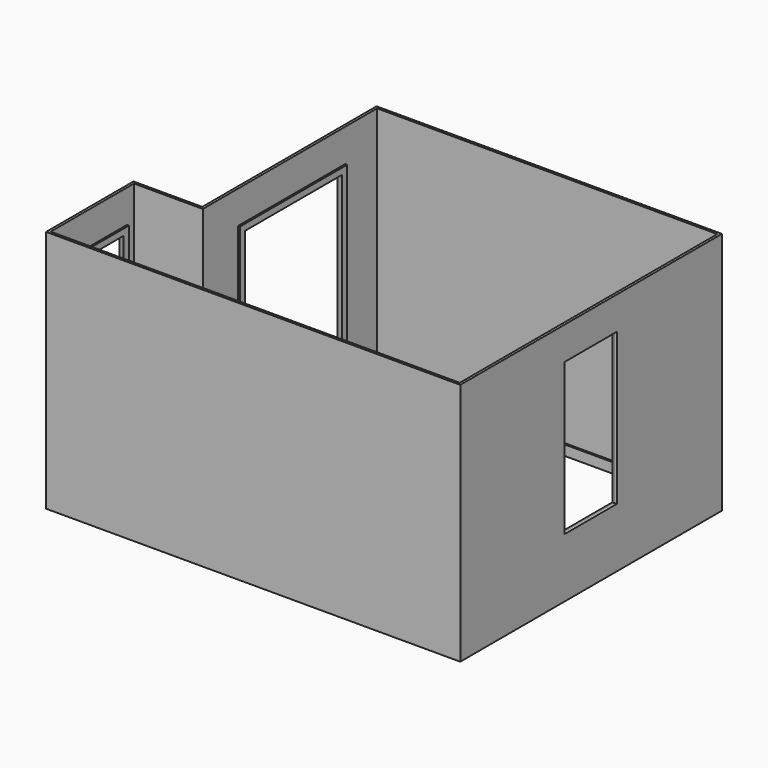
from build123d import *

# Parameters (mm, degrees)
F1_DEPTH       = 2451.1
F2_DEPTH       = 2451.1
F3_DEPTH       = 2451.1
F4_DEPTH       = 2451.1
F5_DEPTH       = 2451.1
F6_DEPTH       = 2451.1
F7_DEPTH       = 101.6
F8_DEPTH       = 101.6
F9_DEPTH       = 101.6
F10_DEPTH      = 101.6
F11_DEPTH      = 101.6
F12_DEPTH      = 101.6
F13_W          = 742.95
F13_H          = 2057.4
F14_DEPTH      = 19.05
F14_DEPTH_BACK = 25.4
F15_DEPTH      = 19.05
F16_W          = 1222.375
F16_H          = 2057.4
F17_DEPTH      = 25.4
F17_DEPTH_BACK = 19.05
F18_DEPTH      = 19.05
F19_W          = 660.4
F19_H          = 1524
F3_FACE1_W     = 3289.3
F3_FACE1_H     = 2451.1
F20_DEPTH      = 25.4
F19_W_2        = 787.4
F19_H_2        = 1651
F21_DEPTH      = 19.05


with BuildPart() as f1:
    # F0 (on Top) → F1 (new body)
    with BuildSketch(Plane.XY):
        Polygon((-25.4, -25.4), (0, 0), (0, 1047.75), (-25.4, 1073.15), align=None)
    extrude(amount=F1_DEPTH)


with BuildPart() as f2:
    # F0 (on Top) → F2 (new body)
    with BuildSketch(Plane.XY):
        Polygon((4114.8, 0), (0, 0), (-25.4, -25.4), (4140.2, -25.4), align=None)
    extrude(amount=F2_DEPTH)


with BuildPart() as f3:
    # F0 (on Top) → F3 (new body)
    with BuildSketch(Plane.XY):
        Polygon((4114.8, 3238.5), (4114.8, 0), (4140.2, -25.4), (4140.2, 3263.9), align=None)
    extrude(amount=F3_DEPTH)

    # F19 (on face) + F3_face1 (on face) → F20 (cut)
    with BuildSketch(Plane(origin=(4114.8, 0, 0), x_dir=(0, -1, 0), z_dir=(-1, 0, 0))):
        with Locations((-1612.9, 1358.9)):
            Rectangle(F19_W, F19_H)
    with BuildSketch(Plane(origin=(4140.2, 1619.25, 1225.55), x_dir=(0, 1, 0), z_dir=(1, 0, 0))):
        Rectangle(F3_FACE1_W, F3_FACE1_H)
    extrude(amount=-F20_DEPTH, dir=(-1, 0, 0), mode=Mode.SUBTRACT)


with BuildPart() as f4:
    # F0 (on Top) → F4 (new body)
    with BuildSketch(Plane.XY):
        Polygon((692.15, 3238.5), (4114.8, 3238.5), (4140.2, 3263.9), (666.75, 3263.9), align=None)
    extrude(amount=F4_DEPTH)


with BuildPart() as f5:
    # F0 (on Top) → F5 (new body)
    with BuildSketch(Plane.XY):
        Polygon((666.75, 1073.15), (692.15, 1047.75), (692.15, 3238.5), (666.75, 3263.9), align=None)
    extrude(amount=F5_DEPTH)


with BuildPart() as f6:
    # F0 (on Top) → F6 (new body)
    with BuildSketch(Plane.XY):
        Polygon((-25.4, 1073.15), (0, 1047.75), (692.15, 1047.75), (666.75, 1073.15), align=None)
    extrude(amount=F6_DEPTH)


with BuildPart() as f7:
    # F0 (on Top) → F7 (new body)
    with BuildSketch(Plane.XY):
        Polygon((0, 1047.75), (0, 0), (19.05, 19.05), (19.05, 1028.7), align=None)
    extrude(amount=F7_DEPTH)


with BuildPart() as f8:
    # F0 (on Top) → F8 (new body)
    with BuildSketch(Plane.XY):
        Polygon((19.05, 19.05), (0, 0), (4114.8, 0), (4095.75, 19.05), align=None)
    extrude(amount=F8_DEPTH)


with BuildPart() as f9:
    # F0 (on Top) → F9 (new body)
    with BuildSketch(Plane.XY):
        Polygon((4095.75, 19.05), (4114.8, 0), (4114.8, 3238.5), (4095.75, 3219.45), align=None)
    extrude(amount=F9_DEPTH)


with BuildPart() as f10:
    # F0 (on Top) → F10 (new body)
    with BuildSketch(Plane.XY):
        Polygon((4095.75, 3219.45), (4114.8, 3238.5), (692.15, 3238.5), (711.2, 3219.45), align=None)
    extrude(amount=F10_DEPTH)


with BuildPart() as f11:
    # F0 (on Top) → F11 (new body)
    with BuildSketch(Plane.XY):
        Polygon((692.15, 3238.5), (692.15, 1047.75), (711.2, 1028.7), (711.2, 3219.45), align=None)
    extrude(amount=F11_DEPTH)


with BuildPart() as f12:
    # F0 (on Top) → F12 (new body)
    with BuildSketch(Plane.XY):
        Polygon((692.15, 1047.75), (0, 1047.75), (19.05, 1028.7), (711.2, 1028.7), align=None)
    extrude(amount=F12_DEPTH)


with BuildPart() as f14_tool:
    # F13 (on face) → F14 (new body, two sides)
    with BuildSketch(Plane.YZ) as f14_sk:
        with Locations((523.875, 1028.7)):
            Rectangle(F13_W, F13_H)
        with Locations((523.875, 1028.7)):
            Rectangle(F13_W, F13_H)
    extrude(amount=F14_DEPTH)
    extrude(f14_sk.sketch, amount=-F14_DEPTH_BACK)


with BuildPart() as f1_1:
    add(f1.part)

    # F14: cut by f14_tool
    add(f14_tool.part, mode=Mode.SUBTRACT)


with BuildPart() as f7_1:
    add(f7.part)

    # F14: cut by f14_tool
    add(f14_tool.part, mode=Mode.SUBTRACT)


with BuildPart() as f15:
    # F13 (on face) → F15 (new body)
    with BuildSketch(Plane.YZ):
        Polygon((88.9, 2120.9), (88.9, 0), (152.4, 0), (152.4, 2057.4), (895.35, 2057.4), (895.35, 0), (958.85, 0), (958.85, 2120.9), align=None)
    extrude(amount=F15_DEPTH)


with BuildPart() as f17_tool:
    # F16 (on face) → F17 (new body, two sides)
    with BuildSketch(Plane.YZ.offset(692.15)) as f17_sk:
        with Locations((2163.7625, 1028.7)):
            Rectangle(F16_W, F16_H)
        with Locations((2163.7625, 1028.7)):
            Rectangle(F16_W, F16_H)
    extrude(amount=-F17_DEPTH)
    extrude(f17_sk.sketch, amount=F17_DEPTH_BACK)


with BuildPart() as f5_1:
    add(f5.part)

    # F17: cut by f17_tool
    add(f17_tool.part, mode=Mode.SUBTRACT)


with BuildPart() as f11_1:
    add(f11.part)

    # F17: cut by f17_tool
    add(f17_tool.part, mode=Mode.SUBTRACT)


with BuildPart() as f18:
    # F16 (on face) → F18 (new body)
    with BuildSketch(Plane.YZ.offset(692.15)):
        Polygon((2838.45, 2120.9), (1489.075, 2120.9), (1489.075, 0), (1552.575, 0), (1552.575, 2057.4), (2774.95, 2057.4), (2774.95, 0), (2838.45, 0), align=None)
    extrude(amount=F18_DEPTH)


with BuildPart() as f21:
    # F19 (on face) → F21 (new body)
    with BuildSketch(Plane(origin=(4114.8, 0, 0), x_dir=(0, -1, 0), z_dir=(-1, 0, 0))):
        with Locations((-1612.9, 1358.9)):
            Rectangle(F19_W_2, F19_H_2)
        with Locations((-1612.9, 1358.9)):
            Rectangle(F19_W, F19_H, mode=Mode.SUBTRACT)
    extrude(amount=F21_DEPTH)


solid = Compound([f2.part, f3.part, f4.part, f6.part, f8.part, f9.part, f10.part, f12.part, f1_1.part, f7_1.part, f15.part, f5_1.part, f11_1.part, f18.part, f21.part])
